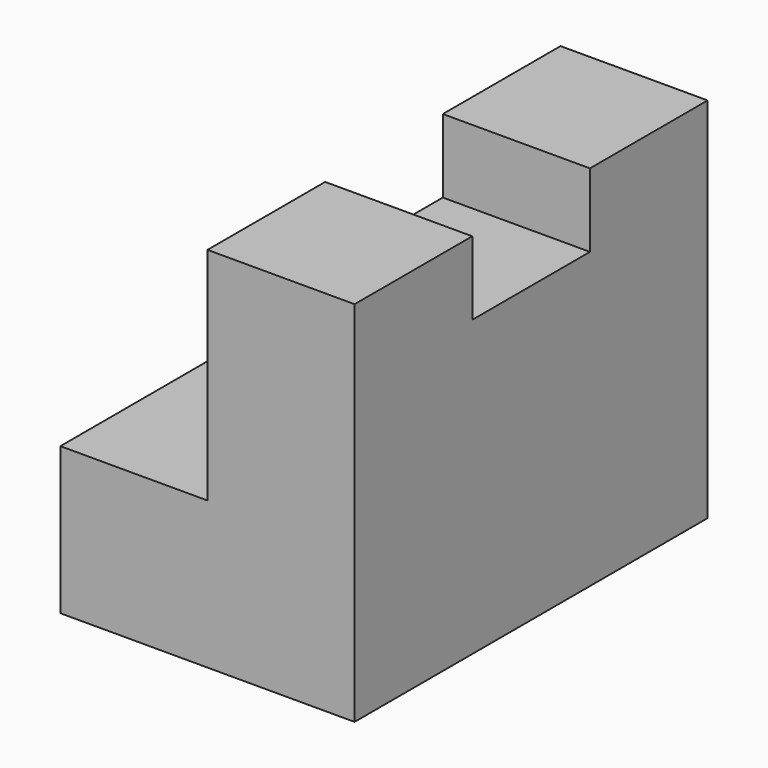
from build123d import *

# Parameters (mm, degrees)
F1_DEPTH = 38.1
F2_W     = 12.7
F2_H     = 6.35
F3_DEPTH = 12.701


with BuildPart() as f1:
    # F0 (on Front) → F1 (new body)
    with BuildSketch(Plane.XZ):
        Polygon((-19.920576, 15.98828), (-19.920576, 47.73828), (-32.620576, 47.73828), (-32.620576, 28.68828), (-45.320576, 28.68828), (-45.320576, 15.98828), align=None)
    extrude(amount=F1_DEPTH)

    # F2 (on face) → F3 (cut, through all)
    with BuildSketch(Plane(origin=(-32.620576, 0, 0), x_dir=(0, -1, 0), z_dir=(-1, 0, 0))):
        with Locations((19.05, 44.56328)):
            Rectangle(F2_W, F2_H)
    extrude(amount=-F3_DEPTH, mode=Mode.SUBTRACT)


solid = f1.part
